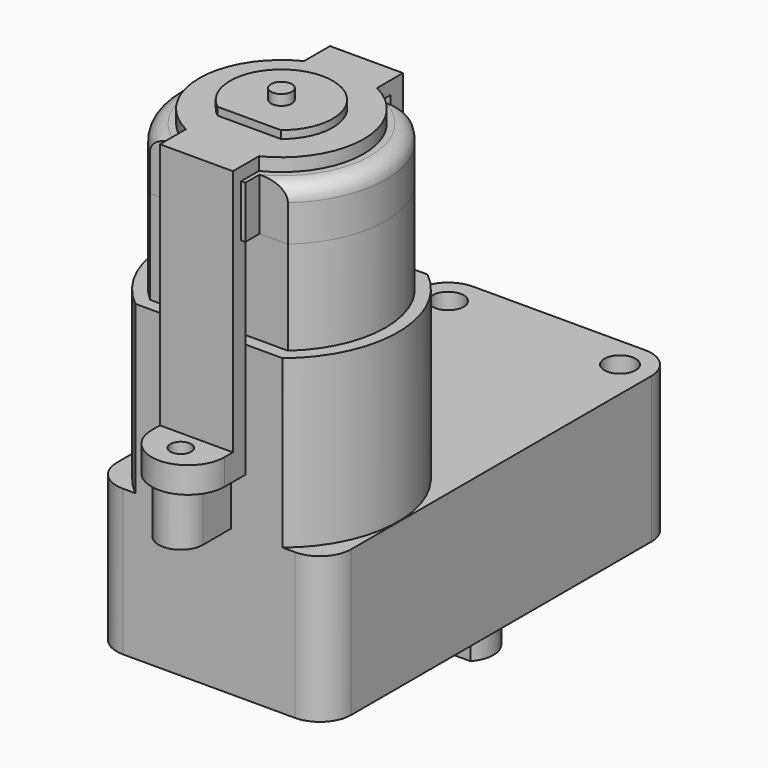
from build123d import *

# Parameters (mm, degrees)
PAD_DEPTH            = 10
PAD001_DEPTH         = 5
PAD003_DEPTH         = 2
FILLET_R             = 1.5
SKETCH002_R          = 1
PAD002_DEPTH         = 18
PAD002_DEPTH_BACK    = 20
PAD004_DEPTH         = 7
PAD005_DEPTH         = 16
SKETCH007_R          = 0.95
PAD006_DEPTH         = 5
SKETCH008_R          = 2.75
POCKET001_DEPTH      = 7
SKETCH009_R          = 1.5
POCKET002_DEPTH      = 7.001
POCKET002_DEPTH_BACK = -23.001
SKETCH010_R          = 2
PAD007_DEPTH         = 2
SKETCH011_R          = 2.7
PAD008_DEPTH         = 16
SKETCH012_R          = 1
SKETCH012_W          = 5
SKETCH012_H          = 1.2
POCKET003_DEPTH      = 9
PAD009_DEPTH         = 7.9
SKETCH014_W          = 29.4
SKETCH014_H          = 15.8
SKETCH014_R          = 1
POCKET004_DEPTH      = 26.251


with BuildPart() as metal:
    # Sketch → Pad (new body, symmetric)
    with BuildSketch(Plane.XY):
        with BuildLine():
            ThreePointArc((-6.614378, 7.5), (-10, 0), (-6.614378, -7.5))
            Line((6.614378, -7.5), (-6.614378, -7.5))
            ThreePointArc((6.614378, -7.5), (10, 0), (6.614378, 7.5))
            Line((-6.614378, 7.5), (6.614378, 7.5))
        make_face()
    extrude(amount=PAD_DEPTH, both=True)


with BuildPart() as metal_1:
    # Body placement: moved
    add(metal.part.moved(Location((0, 0, 22))))


with BuildPart() as plastic:
    # Sketch001 → Pad001 (new body)
    with BuildSketch(Plane.XY.offset(10)):
        with BuildLine():
            ThreePointArc((-6.614378, 7.5), (-10, 0), (-6.614378, -7.5))
            Line((-6.614378, -7.5), (-3.9, -7.5))
            Line((-3.9, -7.5), (-3.9, -9.2))
            Line((-3.9, -9.2), (3.9, -9.2))
            Line((3.9, -9.2), (3.9, -7.5))
            Line((3.9, -7.5), (6.614378, -7.5))
            ThreePointArc((6.614378, -7.5), (10, 0), (6.614378, 7.5))
            Line((-6.614378, 7.5), (6.614378, 7.5))
        make_face()
    extrude(amount=PAD001_DEPTH)

    # Sketch003 (on Face10 of Pad001) → Pad003 (join)
    with BuildSketch(Plane.XY.offset(15)):
        with BuildLine():
            ThreePointArc((3.039737, -3.875), (0, 4.925), (-3.039737, -3.875))
            Line((-3.039737, -3.875), (3.039737, -3.875))
        make_face()
    extrude(amount=PAD003_DEPTH)

    # Fillet
    fillet_edges = [plastic.edges().sort_by_distance(p)[0] for p in [
        (10, 0, 15),
        (-10, 0, 15),
    ]]
    fillet(fillet_edges, radius=FILLET_R)


with BuildPart() as plastic_1:
    # Body001 placement: moved
    add(plastic.part.moved(Location((0, 0, 22))))


with BuildPart() as axis:
    # Sketch002 → Pad002 (new body, two sides)
    with BuildSketch(Plane.XY) as pad002_sk:
        Circle(SKETCH002_R)
    extrude(amount=PAD002_DEPTH)
    extrude(pad002_sk.sketch, amount=-PAD002_DEPTH_BACK)


with BuildPart() as axis_1:
    # Body002 placement: moved
    add(axis.part.moved(Location((0, 0, 22))))


with BuildPart() as yellow:
    # Sketch005 → Pad004 (new body, symmetric)
    with BuildSketch(Plane.XY):
        with BuildLine():
            ThreePointArc((-8.25, 33.3), (-10.37132, 32.42132), (-11.25, 30.3))
            Line((-11.25, -5.7), (-11.25, 30.3))
            ThreePointArc((-11.25, -5.7), (-10.37132, -7.82132), (-8.25, -8.7))
            Line((8.25, -8.7), (-8.25, -8.7))
            ThreePointArc((8.25, -8.7), (10.37132, -7.82132), (11.25, -5.7))
            Line((11.25, 30.3), (11.25, -5.7))
            ThreePointArc((11.25, 30.3), (10.37132, 32.42132), (8.25, 33.3))
            Line((-8.25, 33.3), (8.25, 33.3))
        make_face()
    extrude(amount=PAD004_DEPTH, both=True)

    # Sketch006 → Pad005 (join)
    with BuildSketch(Plane.XY.offset(7)):
        with BuildLine():
            Line((-7.053368, 8.7), (7.053368, 8.7))
            ThreePointArc((7.053368, -8.7), (11.2, 0), (7.053368, 8.7))
            Line((7.053368, -8.7), (-7.053368, -8.7))
            ThreePointArc((-7.053368, 8.7), (-11.2, 0), (-7.053368, -8.7))
        make_face()
        with BuildLine():
            ThreePointArc((-6.614378, 7.5), (-10, 0), (-6.614378, -7.5))
            Line((-6.614378, -7.5), (6.614378, -7.5))
            ThreePointArc((6.614378, -7.5), (10, 0), (6.614378, 7.5))
            Line((-6.614378, 7.5), (6.614378, 7.5))
        make_face(mode=Mode.SUBTRACT)
    extrude(amount=PAD005_DEPTH)

    # Sketch007 → Pad006 (join)
    with BuildSketch(Plane.XY.offset(7)):
        with BuildLine():
            ThreePointArc((-2.125, -12.075), (0, -14.2), (2.125, -12.075))
            Line((2.125, -12.075), (2.125, -8.7))
            Line((2.125, -8.7), (-2.125, -8.7))
            Line((-2.125, -8.7), (-2.125, -12.075))
        make_face()
        with Locations((0, -12.075)):
            Circle(SKETCH007_R, mode=Mode.SUBTRACT)
        with BuildLine():
            ThreePointArc((2.125, 12.075), (0, 14.2), (-2.125, 12.075))
            Line((-2.125, 12.075), (-2.125, 8.7))
            Line((-2.125, 8.7), (2.125, 8.7))
            Line((2.125, 8.7), (2.125, 12.075))
        make_face()
        with Locations((0, 12.075)):
            Circle(SKETCH007_R, mode=Mode.SUBTRACT)
    extrude(amount=PAD006_DEPTH)

    # Sketch008 → Pocket001 (cut)
    with BuildSketch(Plane.XY):
        with Locations((0, 22.05)):
            Circle(SKETCH008_R)
    extrude(amount=-POCKET001_DEPTH, mode=Mode.SUBTRACT)

    # Sketch009 → Pocket002 (cut, two sides)
    with BuildSketch(Plane.XY) as pocket002_sk:
        with Locations((-8.25, 30.3)):
            Circle(SKETCH009_R)
        with Locations((8.25, 30.3)):
            Circle(SKETCH009_R)
    extrude(amount=-POCKET002_DEPTH, mode=Mode.SUBTRACT)
    extrude(pocket002_sk.sketch, amount=-POCKET002_DEPTH_BACK, mode=Mode.SUBTRACT)

    # Sketch010 → Pad007 (join)
    with BuildSketch(Plane.XY.offset(-7)):
        with Locations((0, 11.3)):
            Circle(SKETCH010_R)
    extrude(amount=-PAD007_DEPTH)


with BuildPart() as pink:
    # Sketch011 → Pad008 (new body)
    with BuildSketch(Plane.XY):
        with Locations((0, 22.05)):
            Circle(SKETCH011_R)
    extrude(amount=-PAD008_DEPTH)

    # Sketch012 (on Face3 of Pad008) → Pocket003 (cut)
    with BuildSketch(Plane(origin=(0, 0, -16), x_dir=(1, 0, 0), z_dir=(0, 0, -1))):
        with Locations((0, -22.05)):
            Circle(SKETCH012_R)
        with Locations((0, -19.6)):
            Rectangle(SKETCH012_W, SKETCH012_H)
        with Locations((0, -24.5)):
            Rectangle(SKETCH012_W, SKETCH012_H)
    extrude(amount=-POCKET003_DEPTH, mode=Mode.SUBTRACT)


with BuildPart() as white:
    # Sketch013 → Pad009 (new body, symmetric)
    with BuildSketch(Plane.YZ):
        Polygon((-8.7, 37), (-8.7, 12), (-14.7, 12), (-14.7, 14.5), (-10.2, 14.5), (-10.2, 38.25), (10.2, 38.25), (10.2, 14.5), (14.7, 14.5), (14.7, 12), (8.7, 12), (8.7, 37), align=None)
    extrude(amount=PAD009_DEPTH, both=True)

    # Sketch014 (on Face6 of Pad009) → Pocket004 (cut, through all)
    with BuildSketch(Plane(origin=(0, 0, 38.25), x_dir=(0, -1, 0), z_dir=(0, 0, 1))):
        Rectangle(SKETCH014_W, SKETCH014_H)
        with BuildLine():
            ThreePointArc((-7.082372, -3.5), (0, -7.9), (7.082372, -3.5))
            Line((7.082372, -3.5), (11.2, -3.5))
            ThreePointArc((11.2, -3.5), (14.7, 0), (11.2, 3.5))
            Line((7.082372, 3.5), (11.2, 3.5))
            ThreePointArc((7.082372, 3.5), (0, 7.9), (-7.082372, 3.5))
            Line((-11.2, 3.5), (-7.082372, 3.5))
            ThreePointArc((-11.2, 3.5), (-14.7, 0), (-11.2, -3.5))
            Line((-11.2, -3.5), (-7.082372, -3.5))
        make_face(mode=Mode.SUBTRACT)
        with Locations((-12.075, 0)):
            Circle(SKETCH014_R)
        with Locations((12.075, 0)):
            Circle(SKETCH014_R)
        with BuildLine():
            ThreePointArc((3.875, 3.039737), (-4.925, 0), (3.875, -3.039737))
            Line((3.875, -3.039737), (3.875, 3.039737))
        make_face()
    extrude(amount=-POCKET004_DEPTH, mode=Mode.SUBTRACT)


solid = Compound([metal_1.part, plastic_1.part, axis_1.part, yellow.part, pink.part, white.part])
